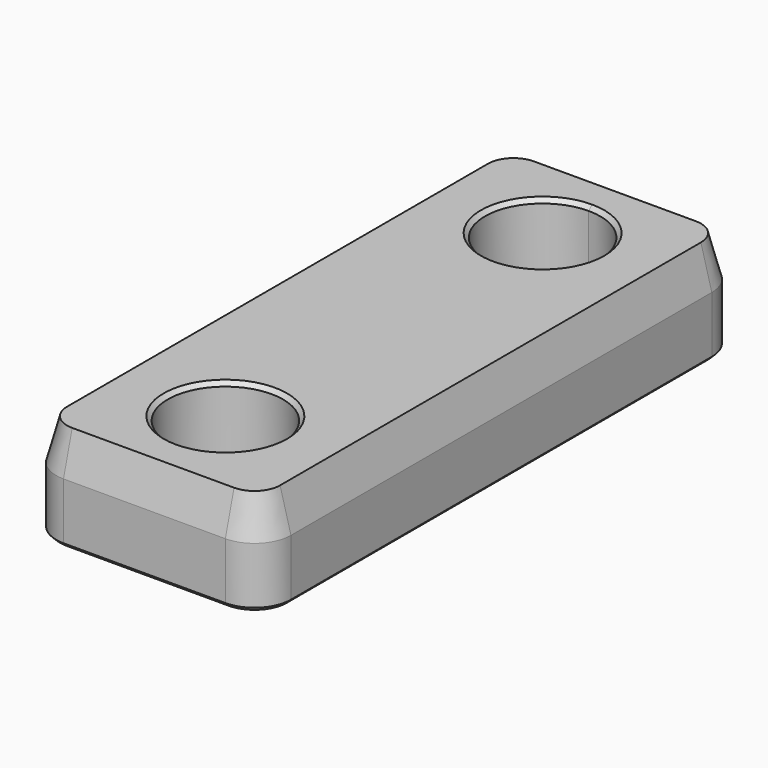
from build123d import *

# Parameters (mm, degrees)
F1_DEPTH = 5
F3_DEPTH = 25
F4_DEPTH = 3.2
F5_SIZE  = 0.2
F6_SIZE2 = 0.535898
F6_SIZE  = 2


with BuildPart() as f1:
    # F0 (on Top) → F1 (new body)
    with BuildSketch(Plane.XY):
        with BuildLine():
            Line((-34.477164, 42.681355), (-34.477164, 68.681355))
            ThreePointArc((-34.477164, 68.681355), (-35.004372, 69.954148), (-36.277164, 70.481355))
            Line((-36.277164, 70.481355), (-44.277164, 70.481355))
            ThreePointArc((-44.277164, 70.481355), (-45.549957, 69.954148), (-46.077164, 68.681355))
            Line((-46.077164, 68.681355), (-46.077164, 42.681355))
            ThreePointArc((-46.077164, 42.681355), (-45.549957, 41.408563), (-44.277164, 40.881355))
            Line((-44.277164, 40.881355), (-36.277164, 40.881355))
            ThreePointArc((-36.277164, 40.881355), (-35.004372, 41.408563), (-34.477164, 42.681355))
        make_face()
    extrude(amount=F1_DEPTH)

    # F2 (on face) → F3 (cut)
    with BuildSketch(Plane.XY.offset(5)):
        with BuildLine():
            ThreePointArc((-38.777164, 65.481355), (-39.216504, 66.542015), (-40.277164, 66.981355))
            ThreePointArc((-40.277164, 66.981355), (-41.337825, 64.420695), (-38.777164, 65.481355))
        make_face()
        with BuildLine():
            ThreePointArc((-38.777164, 45.881355), (-41.337825, 46.942015), (-40.277164, 44.381355))
            ThreePointArc((-40.277164, 44.381355), (-39.216504, 44.820695), (-38.777164, 45.881355))
        make_face()
    extrude(amount=-F3_DEPTH, mode=Mode.SUBTRACT)

    # F2 (on face) → F4 (cut)
    with BuildSketch(Plane.XY.offset(5)):
        with BuildLine():
            ThreePointArc((-37.427164, 65.481355), (-38.26191, 67.49661), (-40.277164, 68.331355))
            ThreePointArc((-40.277164, 68.331355), (-42.292419, 63.466101), (-37.427164, 65.481355))
        make_face()
        with BuildLine():
            ThreePointArc((-38.777164, 65.481355), (-41.337825, 64.420695), (-40.277164, 66.981355))
            ThreePointArc((-40.277164, 66.981355), (-39.216504, 66.542015), (-38.777164, 65.481355))
        make_face(mode=Mode.SUBTRACT)
        with BuildLine():
            ThreePointArc((-37.427164, 45.881355), (-42.292419, 47.89661), (-40.277164, 43.031355))
            ThreePointArc((-40.277164, 43.031355), (-38.26191, 43.866101), (-37.427164, 45.881355))
        make_face()
        with BuildLine():
            ThreePointArc((-38.777164, 45.881355), (-39.216504, 44.820695), (-40.277164, 44.381355))
            ThreePointArc((-40.277164, 44.381355), (-41.337825, 46.942015), (-38.777164, 45.881355))
        make_face(mode=Mode.SUBTRACT)
    extrude(amount=-F4_DEPTH, mode=Mode.SUBTRACT)

    # F5
    f5_edges = [f1.edges().sort_by_distance(p)[0] for p in [
        (-41.777164, 65.481355, 1.8),
        (-40.277164, 47.381355, 1.8),
        (-34.477164, 55.681355, 0),
        (-35.004372, 41.408563, 0),
        (-35.004372, 69.954148, 0),
        (-40.277164, 40.881355, 0),
        (-40.277164, 70.481355, 0),
        (-45.549957, 41.408563, 0),
        (-45.549957, 69.954148, 0),
        (-46.077164, 55.681355, 0),
        (-40.277164, 47.381355, 0),
        (-41.777164, 65.481355, 0),
        (-43.127164, 65.481355, 5),
        (-40.277164, 48.731355, 5),
    ]]
    chamfer(f5_edges, length=F5_SIZE)

    # F6
    f6_edges = [f1.edges().sort_by_distance(p)[0] for p in [
        (-34.477164, 55.681355, 5),
    ]]
    chamfer(f6_edges, length=F6_SIZE, length2=F6_SIZE2)


solid = f1.part
